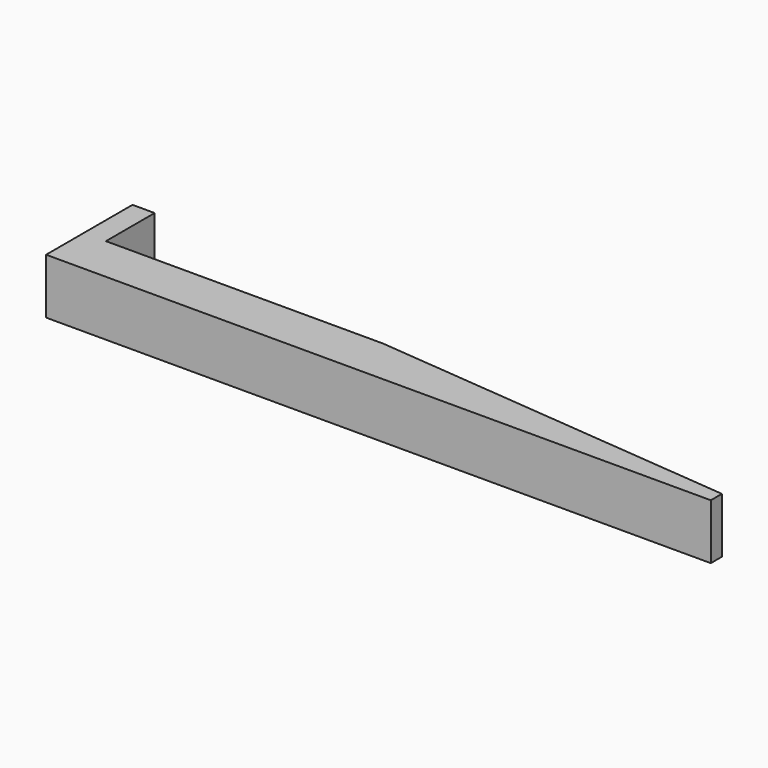
from build123d import *

# Parameters (mm, degrees)
PAD_DEPTH = 10


with BuildPart() as part:
    # Sketch → Pad (new body)
    with BuildSketch(Plane.XY):
        Polygon((0, 0), (0, 19.5), (4, 19.5), (4, 8.5), (54, 8.5), (120, 2.51), (120, 0), align=None)
    extrude(amount=PAD_DEPTH)


solid = part.part
